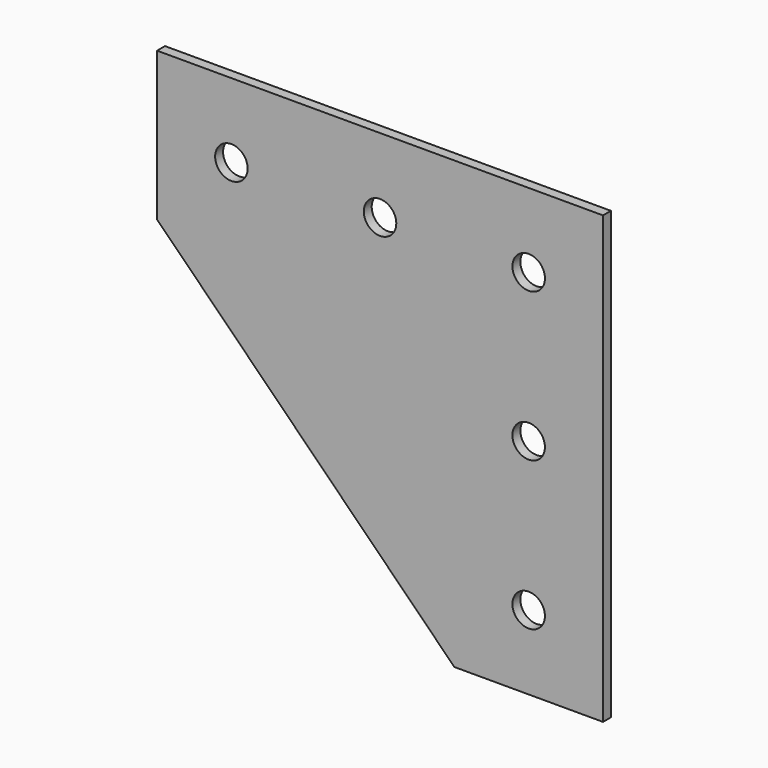
from build123d import *

# Parameters (mm, degrees)
F0_R     = 4.1656
F1_DEPTH = 2.54


with BuildPart() as f1:
    # F0 (on Front) → F1 (new body)
    with BuildSketch(Plane.XZ):
        Polygon((57.15, -57.15), (57.15, 57.15), (-57.15, 57.15), (-57.15, 19.05), (19.05, -57.15), align=None)
        with Locations((38.1, -38.1)):
            Circle(F0_R, mode=Mode.SUBTRACT)
        with Locations((-38.1, 38.1)):
            Circle(F0_R, mode=Mode.SUBTRACT)
        with Locations((38.1, 0)):
            Circle(F0_R, mode=Mode.SUBTRACT)
        with Locations((0, 38.1)):
            Circle(F0_R, mode=Mode.SUBTRACT)
        with Locations((38.1, 38.1)):
            Circle(F0_R, mode=Mode.SUBTRACT)
    extrude(amount=F1_DEPTH)


solid = f1.part
